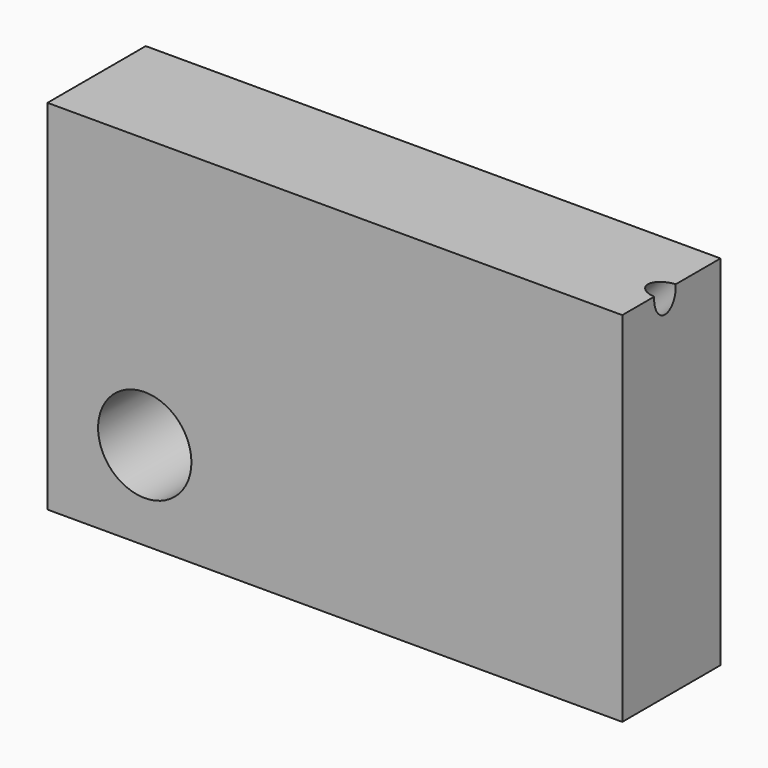
from build123d import *

# Parameters (mm, degrees)
F0_W     = 117.000002
F0_H     = 72.900005
F1_DEPTH = 25
F4_D     = 5.5
F5_R     = 9.5
F6_DEPTH = 40


with BuildPart() as f1:
    # F0 (on Front) → F1 (new body)
    with BuildSketch(Plane.XZ):
        with Locations((-1.050001, 2.849999)):
            Rectangle(F0_W, F0_H)
    extrude(amount=F1_DEPTH)

    # F4 (through all)
    with Locations(Plane(origin=(48.375001, 0, 48.375001), x_dir=(0.707107, 0, -0.707107), z_dir=(0.707107, 0, 0.707107))):
        with Locations((13.142212, -14.138062)):
            Hole(F4_D / 2)

    # F5 (on face) → F6 (cut)
    with BuildSketch(Plane.XZ.offset(25)):
        with Locations((-39.750002, -15.600001)):
            Circle(F5_R)
    extrude(amount=-F6_DEPTH, mode=Mode.SUBTRACT)


solid = f1.part
